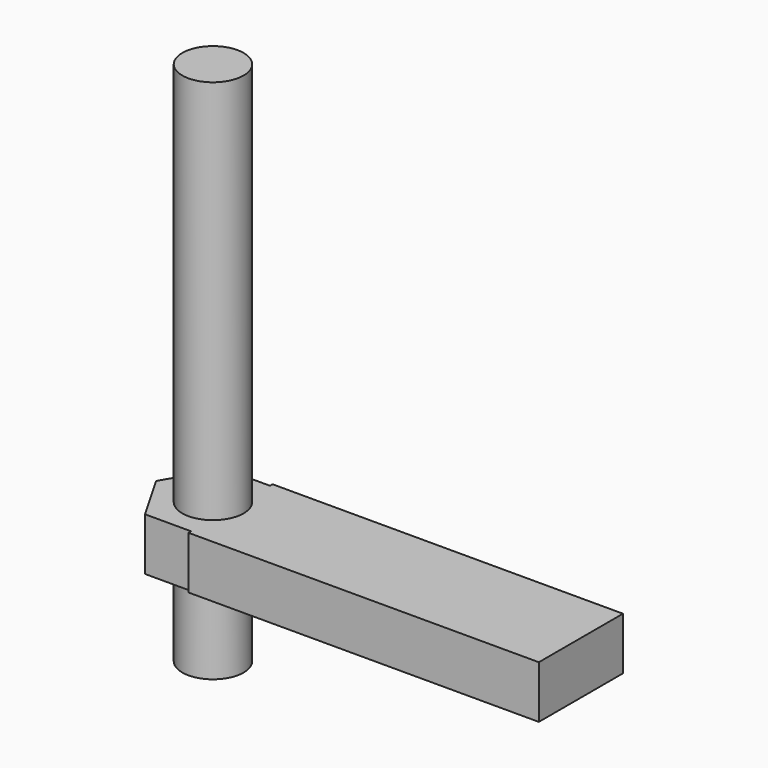
from build123d import *

# Parameters (mm, degrees)
CYLINDER_R     = 1.75
CYLINDER_DEPTH = 30
BOX001_W       = 20
BOX001_H       = 6
BOX001_DEPTH   = 3
PRISM_DEPTH    = 3


with BuildPart() as cilindro:
    # Cylinder → Cylinder (new body)
    with BuildSketch(Plane.XY.offset(-5)):
        Circle(CYLINDER_R)
    extrude(amount=CYLINDER_DEPTH)


with BuildPart() as cubo001:
    # Box001 → Box001 (new body)
    with BuildSketch(Plane(origin=(1, -3, 0), x_dir=(1, 0, 0), z_dir=(0, 0, 1))):
        with Locations((10, 3)):
            Rectangle(BOX001_W, BOX001_H)
    extrude(amount=BOX001_DEPTH)


with BuildPart() as fusion:
    # Prism → Prism (new body)
    with BuildSketch(Plane.XY):
        Polygon((3.25, 0), (1.625, 2.814583), (-1.625, 2.814583), (-3.25, 0), (-1.625, -2.814583), (1.625, -2.814583), align=None)
    extrude(amount=PRISM_DEPTH)

    # Fusion: union Cilindro, Cubo001
    add(cilindro.part)
    add(cubo001.part)


solid = fusion.part
